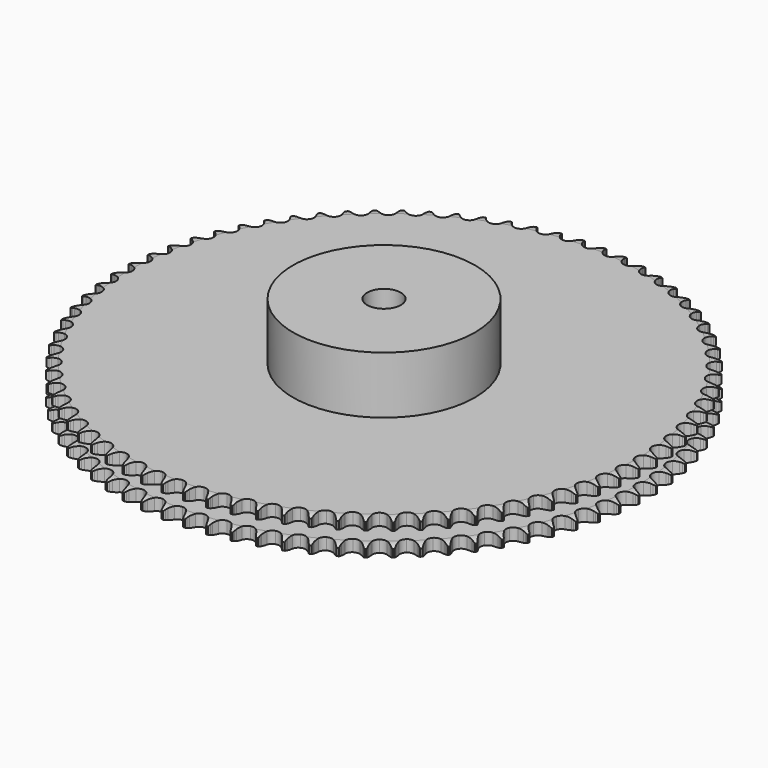
from build123d import *

# Parameters (mm, degrees)
PAD_DEPTH         = 21
SKETCH001_R       = 54
PAD001_DEPTH      = 55
SKETCH002_R       = 10
POCKET_DEPTH      = 0.001
POCKET_DEPTH_BACK = 55.001


with BuildPart() as part:
    # Sprocket → Pad (new body)
    with BuildSketch(Plane.XY):
        with BuildLine():
            ThreePointArc((-6.507722, 157.342219), (-5.887136, 156.383888), (-5.435054, 155.335486))
            Line((-5.435054, 155.335486), (-5.023535, 154.10746))
            ThreePointArc((-5.023535, 154.10746), (-4.373702, 152.564742), (-3.499697, 151.137024))
            ThreePointArc((-3.499697, 151.137024), (-1.965744, 149.819577), (0, 149.345733))
            ThreePointArc((0, 149.345733), (1.965744, 149.819577), (3.499697, 151.137024))
            ThreePointArc((3.499697, 151.137024), (4.373702, 152.564742), (5.023535, 154.10746))
            Line((5.023535, 154.10746), (5.435054, 155.335486))
            ThreePointArc((5.435054, 155.335486), (5.887136, 156.383888), (6.507722, 157.342219))
            ThreePointArc((6.507722, 157.342219), (7.047051, 156.335914), (7.411012, 155.25376))
            Line((7.411012, 155.25376), (7.719716, 153.995945))
            ThreePointArc((7.719716, 153.995945), (8.239933, 152.404833), (8.993053, 150.909817))
            ThreePointArc((8.993053, 150.909817), (10.412972, 149.470197), (12.332873, 148.835641))
            ThreePointArc((12.332873, 148.835641), (14.331033, 149.145537), (15.96854, 150.331812))
            Line((15.96854, 150.331812), (17.73247, 153.166264))
            ThreePointArc((17.73247, 153.166264), (17.970898, 153.768641), (18.243994, 154.356113))
            ThreePointArc((18.243994, 154.356113), (18.781107, 155.363602), (19.478713, 156.267412))
            ThreePointArc((19.478713, 156.267412), (19.933099, 155.220007), (20.206453, 154.111493))
            Line((20.206453, 154.111493), (20.410233, 152.832482))
            ThreePointArc((20.410233, 152.832482), (20.797281, 151.203845), (21.424371, 149.651743))
            ThreePointArc((21.424371, 149.651743), (22.720558, 148.099784), (24.5815, 147.308852))
            ThreePointArc((24.5815, 147.308852), (26.598426, 147.452682), (28.328302, 148.499681))
            Line((28.328302, 148.499681), (30.320275, 151.178788))
            ThreePointArc((30.320275, 151.178788), (30.607632, 151.759418), (30.928308, 152.322332))
            ThreePointArc((30.928308, 152.322332), (31.546785, 153.282025), (32.316644, 154.12514))
            ThreePointArc((32.316644, 154.12514), (32.682984, 153.043789), (32.863864, 151.916488))
            Line((32.863864, 151.916488), (32.961328, 150.625017))
            ThreePointArc((32.961328, 150.625017), (33.212562, 148.969982), (33.709339, 147.371396))
            ThreePointArc((33.709339, 147.371396), (34.872939, 145.717699), (36.66221, 144.775793))
            ThreePointArc((36.66221, 144.775793), (38.684125, 144.752576), (40.494553, 145.653146))
            Line((40.494553, 145.653146), (42.700961, 148.158607))
            ThreePointArc((42.700961, 148.158607), (43.035285, 148.713524), (43.401351, 149.248034))
            ThreePointArc((43.401351, 149.248034), (44.096966, 150.153377), (44.933819, 150.930038))
            ThreePointArc((44.933819, 150.930038), (45.209611, 149.822128), (45.296782, 148.68374))
            Line((45.296782, 148.68374), (45.287264, 147.388632))
            ThreePointArc((45.287264, 147.388632), (45.400968, 145.718502), (45.764038, 144.084353))
            ThreePointArc((45.764038, 144.084353), (46.787102, 142.340215), (48.49248, 141.253769))
            ThreePointArc((48.49248, 141.253769), (50.505572, 141.063662), (52.384185, 141.811653))
            Line((52.384185, 141.811653), (54.789957, 144.126353))
            ThreePointArc((54.789957, 144.126353), (55.168963, 144.651766), (55.577918, 145.154222))
            ThreePointArc((55.577918, 145.154222), (56.34592, 145.999028), (57.244051, 146.70393))
            ThreePointArc((57.244051, 146.70393), (57.427411, 145.577029), (57.420276, 144.435331))
            Line((57.420276, 144.435331), (57.303842, 143.145432))
            ThreePointArc((57.303842, 143.145432), (57.279239, 141.471617), (57.506122, 139.813068))
            ThreePointArc((57.506122, 139.813068), (58.381662, 137.990403), (59.991498, 136.766839))
            ThreePointArc((59.991498, 136.766839), (61.982015, 136.411141), (63.91598, 137.001443))
            Line((63.91598, 137.001443), (66.504681, 139.10957))
            ThreePointArc((66.504681, 139.10957), (66.925782, 139.60189), (67.374832, 140.068858))
            ThreePointArc((67.374832, 140.068858), (68.209974, 140.847358), (69.163248, 141.475685))
            ThreePointArc((69.163248, 141.475685), (69.252923, 140.337492), (69.151532, 139.200282))
            Line((69.151532, 139.200282), (68.928976, 137.924404))
            ThreePointArc((68.928976, 137.924404), (68.766235, 136.258338), (68.855381, 134.586717))
            ThreePointArc((68.855381, 134.586717), (69.577416, 132.697976), (71.080712, 131.345652))
            ThreePointArc((71.080712, 131.345652), (73.035057, 130.826794), (75.011164, 131.255374))
            Line((75.011164, 131.255374), (77.765111, 133.142527))
            ThreePointArc((77.765111, 133.142527), (78.225429, 133.598392), (78.711507, 134.026683))
            ThreePointArc((78.711507, 134.026683), (79.608085, 134.733558), (80.60999, 135.281018))
            ThreePointArc((80.60999, 135.281018), (80.605367, 134.139307), (80.410413, 133.014355))
            Line((80.410413, 133.014355), (80.083256, 131.761213))
            ThreePointArc((80.083256, 131.761213), (79.783488, 130.114276), (79.734288, 128.441003))
            ThreePointArc((79.734288, 128.441003), (80.297886, 126.499088), (81.684374, 125.027241))
            ThreePointArc((81.684374, 125.027241), (83.589197, 124.348767), (85.593946, 124.612697))
            Line((85.593946, 124.612697), (88.494327, 126.265986))
            ThreePointArc((88.494327, 126.265986), (88.990717, 126.682281), (89.510503, 127.068969))
            ThreePointArc((89.510503, 127.068969), (90.462392, 127.699391), (91.506084, 128.162245))
            ThreePointArc((91.506084, 128.162245), (91.407195, 127.024815), (91.120009, 125.919804))
            Line((91.120009, 125.919804), (90.690486, 124.697958))
            ThreePointArc((90.690486, 124.697958), (90.255739, 123.081401), (90.068529, 121.417907))
            ThreePointArc((90.068529, 121.417907), (90.46984, 119.436082), (91.730048, 117.854768))
            ThreePointArc((91.730048, 117.854768), (93.572337, 117.021312), (95.592034, 117.11879))
            Line((95.592034, 117.11879), (98.619036, 118.52692))
            ThreePointArc((98.619036, 118.52692), (99.148108, 118.900802), (99.698052, 119.243245))
            ThreePointArc((99.698052, 119.243245), (100.69875, 119.792908), (101.777099, 120.167993))
            ThreePointArc((101.777099, 120.167993), (101.584619, 119.042614), (101.207163, 117.965093))
            Line((101.207163, 117.965093), (100.678208, 116.782891))
            ThreePointArc((100.678208, 116.782891), (100.111451, 115.207756), (99.78751, 113.565403))
            ThreePointArc((99.78751, 113.565403), (100.023793, 111.557207), (101.149113, 109.877227))
            ThreePointArc((101.149113, 109.877227), (102.916283, 108.894482), (104.937132, 108.824842))
            Line((104.937132, 108.824842), (108.070077, 109.978195))
            ThreePointArc((108.070077, 109.978195), (108.628218, 110.307109), (109.204561, 110.602969))
            ThreePointArc((109.204561, 110.602969), (110.247232, 111.068117), (111.352872, 111.352872))
            ThreePointArc((111.352872, 111.352872), (111.068117, 110.247232), (110.602969, 109.204561))
            Line((110.602969, 109.204561), (109.978195, 108.070077))
            ThreePointArc((109.978195, 108.070077), (109.283301, 106.547125), (108.824842, 104.937132))
            ThreePointArc((108.824842, 104.937132), (108.894482, 102.916283), (109.877227, 101.149113))
            ThreePointArc((109.877227, 101.149113), (111.557207, 100.023793), (113.565403, 99.78751))
            Line((113.565403, 99.78751), (116.782891, 100.678208))
            ThreePointArc((116.782891, 100.678208), (117.366286, 100.959907), (117.965093, 101.207163))
            ThreePointArc((117.965093, 101.207163), (119.042614, 101.584619), (120.167993, 101.777099))
            ThreePointArc((120.167993, 101.777099), (119.792908, 100.69875), (119.243245, 99.698052))
            Line((119.243245, 99.698052), (118.52692, 98.619036))
            ThreePointArc((118.52692, 98.619036), (117.708635, 97.158669), (117.11879, 95.592034))
            ThreePointArc((117.11879, 95.592034), (117.021312, 93.572337), (117.854768, 91.730048))
            ThreePointArc((117.854768, 91.730048), (119.436082, 90.46984), (121.417907, 90.068529))
            Line((121.417907, 90.068529), (124.697958, 90.690486))
            ThreePointArc((124.697958, 90.690486), (125.302624, 90.923047), (125.919804, 91.120009))
            ThreePointArc((125.919804, 91.120009), (127.024815, 91.407195), (128.162245, 91.506084))
            ThreePointArc((128.162245, 91.506084), (127.699391, 90.462392), (127.068969, 89.510503))
            Line((127.068969, 89.510503), (126.265986, 88.494327))
            ThreePointArc((126.265986, 88.494327), (125.329899, 87.106521), (124.612697, 85.593946))
            ThreePointArc((124.612697, 85.593946), (124.348767, 83.589197), (125.027241, 81.684374))
            ThreePointArc((125.027241, 81.684374), (126.499088, 80.297886), (128.441003, 79.734288))
            Line((128.441003, 79.734288), (131.761213, 80.083256))
            ThreePointArc((131.761213, 80.083256), (132.383018, 80.26509), (133.014355, 80.410413))
            ThreePointArc((133.014355, 80.410413), (134.139307, 80.605367), (135.281018, 80.60999))
            ThreePointArc((135.281018, 80.60999), (134.733558, 79.608085), (134.026683, 78.711507))
            Line((134.026683, 78.711507), (133.142527, 77.765111))
            ThreePointArc((133.142527, 77.765111), (132.095034, 76.459347), (131.255374, 75.011164))
            ThreePointArc((131.255374, 75.011164), (130.826794, 73.035057), (131.345652, 71.080712))
            ThreePointArc((131.345652, 71.080712), (132.697976, 69.577416), (134.586717, 68.855381))
            Line((134.586717, 68.855381), (137.924404, 68.928976))
            ThreePointArc((137.924404, 68.928976), (138.559101, 69.058841), (139.200282, 69.151532))
            ThreePointArc((139.200282, 69.151532), (140.337492, 69.252923), (141.475685, 69.163248))
            ThreePointArc((141.475685, 69.163248), (140.847358, 68.209974), (140.068858, 67.374832))
            Line((140.068858, 67.374832), (139.10957, 66.504681))
            ThreePointArc((139.10957, 66.504681), (137.957825, 65.289878), (137.001443, 63.91598))
            ThreePointArc((137.001443, 63.91598), (136.411141, 61.982015), (136.766839, 59.991498))
            ThreePointArc((136.766839, 59.991498), (137.990403, 58.381662), (139.813068, 57.506122))
            Line((139.813068, 57.506122), (143.145432, 57.303842))
            ThreePointArc((143.145432, 57.303842), (143.788685, 57.38085), (144.435331, 57.420276))
            ThreePointArc((144.435331, 57.420276), (145.577029, 57.427411), (146.70393, 57.244051))
            ThreePointArc((146.70393, 57.244051), (145.999028, 56.34592), (145.154222, 55.577918))
            Line((145.154222, 55.577918), (144.126353, 54.789957))
            ThreePointArc((144.126353, 54.789957), (142.878225, 53.674413), (141.811653, 52.384185))
            ThreePointArc((141.811653, 52.384185), (141.063662, 50.505572), (141.253769, 48.49248))
            ThreePointArc((141.253769, 48.49248), (142.340215, 46.787102), (144.084353, 45.764038))
            Line((144.084353, 45.764038), (147.388632, 45.287264))
            ThreePointArc((147.388632, 45.287264), (148.036047, 45.31089), (148.68374, 45.296782))
            ThreePointArc((148.68374, 45.296782), (149.822128, 45.209611), (150.930038, 44.933819))
            ThreePointArc((150.930038, 44.933819), (150.153377, 44.096966), (149.248034, 43.401351))
            Line((149.248034, 43.401351), (148.158607, 42.700961))
            ThreePointArc((148.158607, 42.700961), (146.822621, 41.692298), (145.653146, 40.494553))
            ThreePointArc((145.653146, 40.494553), (144.752576, 38.684125), (144.775793, 36.66221))
            ThreePointArc((144.775793, 36.66221), (145.717699, 34.872939), (147.371396, 33.709339))
            Line((147.371396, 33.709339), (150.625017, 32.961328))
            ThreePointArc((150.625017, 32.961328), (151.272173, 32.93141), (151.916488, 32.863864))
            ThreePointArc((151.916488, 32.863864), (153.043789, 32.682984), (154.12514, 32.316644))
            ThreePointArc((154.12514, 32.316644), (153.282025, 31.546785), (152.322332, 30.928308))
            Line((152.322332, 30.928308), (151.178788, 30.320275))
            ThreePointArc((151.178788, 30.320275), (149.76407, 29.425381), (148.499681, 28.328302))
            ThreePointArc((148.499681, 28.328302), (147.452682, 26.598426), (147.308852, 24.5815))
            ThreePointArc((147.308852, 24.5815), (148.099784, 22.720558), (149.651743, 21.424371))
            Line((149.651743, 21.424371), (152.832482, 20.410233))
            ThreePointArc((152.832482, 20.410233), (153.474956, 20.326976), (154.111493, 20.206453))
            ThreePointArc((154.111493, 20.206453), (155.220007, 19.933099), (156.267412, 19.478713))
            ThreePointArc((156.267412, 19.478713), (155.363602, 18.781107), (154.356113, 18.243994))
            Line((154.356113, 18.243994), (153.166264, 17.73247))
            ThreePointArc((153.166264, 17.73247), (151.682478, 16.95746), (150.331812, 15.96854))
            ThreePointArc((150.331812, 15.96854), (149.145537, 14.331033), (148.835641, 12.332873))
            ThreePointArc((148.835641, 12.332873), (149.470197, 10.412972), (150.909817, 8.993053))
            Line((150.909817, 8.993053), (153.995945, 7.719716))
            ThreePointArc((153.995945, 7.719716), (154.629349, 7.583688), (155.25376, 7.411012))
            ThreePointArc((155.25376, 7.411012), (156.335914, 7.047051), (157.342219, 6.507722))
            ThreePointArc((157.342219, 6.507722), (156.383888, 5.887136), (155.335486, 5.435054))
            Line((155.335486, 5.435054), (154.10746, 5.023535))
            ThreePointArc((154.10746, 5.023535), (152.564742, 4.373702), (151.137024, 3.499697))
            ThreePointArc((151.137024, 3.499697), (149.819577, 1.965744), (149.345733, 0))
            ThreePointArc((149.345733, 0), (149.819577, -1.965744), (151.137024, -3.499697))
            Line((151.137024, -3.499697), (154.10746, -5.023535))
            ThreePointArc((154.10746, -5.023535), (154.727468, -5.211405), (155.335486, -5.435054))
            ThreePointArc((155.335486, -5.435054), (156.383888, -5.887136), (157.342219, -6.507722))
            ThreePointArc((157.342219, -6.507722), (156.335914, -7.047051), (155.25376, -7.411012))
            Line((155.25376, -7.411012), (153.995945, -7.719716))
            ThreePointArc((153.995945, -7.719716), (152.404833, -8.239933), (150.909817, -8.993053))
            ThreePointArc((150.909817, -8.993053), (149.470197, -10.412972), (148.835641, -12.332873))
            ThreePointArc((148.835641, -12.332873), (149.145537, -14.331033), (150.331812, -15.96854))
            Line((150.331812, -15.96854), (153.166264, -17.73247))
            ThreePointArc((153.166264, -17.73247), (153.768641, -17.970898), (154.356113, -18.243994))
            ThreePointArc((154.356113, -18.243994), (155.363602, -18.781107), (156.267412, -19.478713))
            ThreePointArc((156.267412, -19.478713), (155.220007, -19.933099), (154.111493, -20.206453))
            Line((154.111493, -20.206453), (152.832482, -20.410233))
            ThreePointArc((152.832482, -20.410233), (151.203845, -20.797281), (149.651743, -21.424371))
            ThreePointArc((149.651743, -21.424371), (148.099784, -22.720558), (147.308852, -24.5815))
            ThreePointArc((147.308852, -24.5815), (147.452682, -26.598426), (148.499681, -28.328302))
            Line((148.499681, -28.328302), (151.178788, -30.320275))
            ThreePointArc((151.178788, -30.320275), (151.759418, -30.607632), (152.322332, -30.928308))
            ThreePointArc((152.322332, -30.928308), (153.282025, -31.546785), (154.12514, -32.316644))
            ThreePointArc((154.12514, -32.316644), (153.043789, -32.682984), (151.916488, -32.863864))
            Line((151.916488, -32.863864), (150.625017, -32.961328))
            ThreePointArc((150.625017, -32.961328), (148.969982, -33.212562), (147.371396, -33.709339))
            ThreePointArc((147.371396, -33.709339), (145.717699, -34.872939), (144.775793, -36.66221))
            ThreePointArc((144.775793, -36.66221), (144.752576, -38.684125), (145.653146, -40.494553))
            Line((145.653146, -40.494553), (148.158607, -42.700961))
            ThreePointArc((148.158607, -42.700961), (148.713524, -43.035285), (149.248034, -43.401351))
            ThreePointArc((149.248034, -43.401351), (150.153377, -44.096966), (150.930038, -44.933819))
            ThreePointArc((150.930038, -44.933819), (149.822128, -45.209611), (148.68374, -45.296782))
            Line((148.68374, -45.296782), (147.388632, -45.287264))
            ThreePointArc((147.388632, -45.287264), (145.718502, -45.400968), (144.084353, -45.764038))
            ThreePointArc((144.084353, -45.764038), (142.340215, -46.787102), (141.253769, -48.49248))
            ThreePointArc((141.253769, -48.49248), (141.063662, -50.505572), (141.811653, -52.384185))
            Line((141.811653, -52.384185), (144.126353, -54.789957))
            ThreePointArc((144.126353, -54.789957), (144.651766, -55.168963), (145.154222, -55.577918))
            ThreePointArc((145.154222, -55.577918), (145.999028, -56.34592), (146.70393, -57.244051))
            ThreePointArc((146.70393, -57.244051), (145.577029, -57.427411), (144.435331, -57.420276))
            Line((144.435331, -57.420276), (143.145432, -57.303842))
            ThreePointArc((143.145432, -57.303842), (141.471617, -57.279239), (139.813068, -57.506122))
            ThreePointArc((139.813068, -57.506122), (137.990403, -58.381662), (136.766839, -59.991498))
            ThreePointArc((136.766839, -59.991498), (136.411141, -61.982015), (137.001443, -63.91598))
            Line((137.001443, -63.91598), (139.10957, -66.504681))
            ThreePointArc((139.10957, -66.504681), (139.60189, -66.925782), (140.068858, -67.374832))
            ThreePointArc((140.068858, -67.374832), (140.847358, -68.209974), (141.475685, -69.163248))
            ThreePointArc((141.475685, -69.163248), (140.337492, -69.252923), (139.200282, -69.151532))
            Line((139.200282, -69.151532), (137.924404, -68.928976))
            ThreePointArc((137.924404, -68.928976), (136.258338, -68.766235), (134.586717, -68.855381))
            ThreePointArc((134.586717, -68.855381), (132.697976, -69.577416), (131.345652, -71.080712))
            ThreePointArc((131.345652, -71.080712), (130.826794, -73.035057), (131.255374, -75.011164))
            Line((131.255374, -75.011164), (133.142527, -77.765111))
            ThreePointArc((133.142527, -77.765111), (133.598392, -78.225429), (134.026683, -78.711507))
            ThreePointArc((134.026683, -78.711507), (134.733558, -79.608085), (135.281018, -80.60999))
            ThreePointArc((135.281018, -80.60999), (134.139307, -80.605367), (133.014355, -80.410413))
            Line((133.014355, -80.410413), (131.761213, -80.083256))
            ThreePointArc((131.761213, -80.083256), (130.114276, -79.783488), (128.441003, -79.734288))
            ThreePointArc((128.441003, -79.734288), (126.499088, -80.297886), (125.027241, -81.684374))
            ThreePointArc((125.027241, -81.684374), (124.348767, -83.589197), (124.612697, -85.593946))
            Line((124.612697, -85.593946), (126.265986, -88.494327))
            ThreePointArc((126.265986, -88.494327), (126.682281, -88.990717), (127.068969, -89.510503))
            ThreePointArc((127.068969, -89.510503), (127.699391, -90.462392), (128.162245, -91.506084))
            ThreePointArc((128.162245, -91.506084), (127.024815, -91.407195), (125.919804, -91.120009))
            Line((125.919804, -91.120009), (124.697958, -90.690486))
            ThreePointArc((124.697958, -90.690486), (123.081401, -90.255739), (121.417907, -90.068529))
            ThreePointArc((121.417907, -90.068529), (119.436082, -90.46984), (117.854768, -91.730048))
            ThreePointArc((117.854768, -91.730048), (117.021312, -93.572337), (117.11879, -95.592034))
            Line((117.11879, -95.592034), (118.52692, -98.619036))
            ThreePointArc((118.52692, -98.619036), (118.900802, -99.148108), (119.243245, -99.698052))
            ThreePointArc((119.243245, -99.698052), (119.792908, -100.69875), (120.167993, -101.777099))
            ThreePointArc((120.167993, -101.777099), (119.042614, -101.584619), (117.965093, -101.207163))
            Line((117.965093, -101.207163), (116.782891, -100.678208))
            ThreePointArc((116.782891, -100.678208), (115.207756, -100.111451), (113.565403, -99.78751))
            ThreePointArc((113.565403, -99.78751), (111.557207, -100.023793), (109.877227, -101.149113))
            ThreePointArc((109.877227, -101.149113), (108.894482, -102.916283), (108.824842, -104.937132))
            Line((108.824842, -104.937132), (109.978195, -108.070077))
            ThreePointArc((109.978195, -108.070077), (110.307109, -108.628218), (110.602969, -109.204561))
            ThreePointArc((110.602969, -109.204561), (111.068117, -110.247232), (111.352872, -111.352872))
            ThreePointArc((111.352872, -111.352872), (110.247232, -111.068117), (109.204561, -110.602969))
            Line((109.204561, -110.602969), (108.070077, -109.978195))
            ThreePointArc((108.070077, -109.978195), (106.547125, -109.283301), (104.937132, -108.824842))
            ThreePointArc((104.937132, -108.824842), (102.916283, -108.894482), (101.149113, -109.877227))
            ThreePointArc((101.149113, -109.877227), (100.023793, -111.557207), (99.78751, -113.565403))
            Line((99.78751, -113.565403), (100.678208, -116.782891))
            ThreePointArc((100.678208, -116.782891), (100.959907, -117.366286), (101.207163, -117.965093))
            ThreePointArc((101.207163, -117.965093), (101.584619, -119.042614), (101.777099, -120.167993))
            ThreePointArc((101.777099, -120.167993), (100.69875, -119.792908), (99.698052, -119.243245))
            Line((99.698052, -119.243245), (98.619036, -118.52692))
            ThreePointArc((98.619036, -118.52692), (97.158669, -117.708635), (95.592034, -117.11879))
            ThreePointArc((95.592034, -117.11879), (93.572337, -117.021312), (91.730048, -117.854768))
            ThreePointArc((91.730048, -117.854768), (90.46984, -119.436082), (90.068529, -121.417907))
            Line((90.068529, -121.417907), (90.690486, -124.697958))
            ThreePointArc((90.690486, -124.697958), (90.923047, -125.302624), (91.120009, -125.919804))
            ThreePointArc((91.120009, -125.919804), (91.407195, -127.024815), (91.506084, -128.162245))
            ThreePointArc((91.506084, -128.162245), (90.462392, -127.699391), (89.510503, -127.068969))
            Line((89.510503, -127.068969), (88.494327, -126.265986))
            ThreePointArc((88.494327, -126.265986), (87.106521, -125.329899), (85.593946, -124.612697))
            ThreePointArc((85.593946, -124.612697), (83.589197, -124.348767), (81.684374, -125.027241))
            ThreePointArc((81.684374, -125.027241), (80.297886, -126.499088), (79.734288, -128.441003))
            Line((79.734288, -128.441003), (80.083256, -131.761213))
            ThreePointArc((80.083256, -131.761213), (80.26509, -132.383018), (80.410413, -133.014355))
            ThreePointArc((80.410413, -133.014355), (80.605367, -134.139307), (80.60999, -135.281018))
            ThreePointArc((80.60999, -135.281018), (79.608085, -134.733558), (78.711507, -134.026683))
            Line((78.711507, -134.026683), (77.765111, -133.142527))
            ThreePointArc((77.765111, -133.142527), (76.459347, -132.095034), (75.011164, -131.255374))
            ThreePointArc((75.011164, -131.255374), (73.035057, -130.826794), (71.080712, -131.345652))
            ThreePointArc((71.080712, -131.345652), (69.577416, -132.697976), (68.855381, -134.586717))
            Line((68.855381, -134.586717), (68.928976, -137.924404))
            ThreePointArc((68.928976, -137.924404), (69.058841, -138.559101), (69.151532, -139.200282))
            ThreePointArc((69.151532, -139.200282), (69.252923, -140.337492), (69.163248, -141.475685))
            ThreePointArc((69.163248, -141.475685), (68.209974, -140.847358), (67.374832, -140.068858))
            Line((67.374832, -140.068858), (66.504681, -139.10957))
            ThreePointArc((66.504681, -139.10957), (65.289878, -137.957825), (63.91598, -137.001443))
            ThreePointArc((63.91598, -137.001443), (61.982015, -136.411141), (59.991498, -136.766839))
            ThreePointArc((59.991498, -136.766839), (58.381662, -137.990403), (57.506122, -139.813068))
            Line((57.506122, -139.813068), (57.303842, -143.145432))
            ThreePointArc((57.303842, -143.145432), (57.38085, -143.788685), (57.420276, -144.435331))
            ThreePointArc((57.420276, -144.435331), (57.427411, -145.577029), (57.244051, -146.70393))
            ThreePointArc((57.244051, -146.70393), (56.34592, -145.999028), (55.577918, -145.154222))
            Line((55.577918, -145.154222), (54.789957, -144.126353))
            ThreePointArc((54.789957, -144.126353), (53.674413, -142.878225), (52.384185, -141.811653))
            ThreePointArc((52.384185, -141.811653), (50.505572, -141.063662), (48.49248, -141.253769))
            ThreePointArc((48.49248, -141.253769), (46.787102, -142.340215), (45.764038, -144.084353))
            Line((45.764038, -144.084353), (45.287264, -147.388632))
            ThreePointArc((45.287264, -147.388632), (45.31089, -148.036047), (45.296782, -148.68374))
            ThreePointArc((45.296782, -148.68374), (45.209611, -149.822128), (44.933819, -150.930038))
            ThreePointArc((44.933819, -150.930038), (44.096966, -150.153377), (43.401351, -149.248034))
            Line((43.401351, -149.248034), (42.700961, -148.158607))
            ThreePointArc((42.700961, -148.158607), (41.692298, -146.822621), (40.494553, -145.653146))
            ThreePointArc((40.494553, -145.653146), (38.684125, -144.752576), (36.66221, -144.775793))
            ThreePointArc((36.66221, -144.775793), (34.872939, -145.717699), (33.709339, -147.371396))
            Line((33.709339, -147.371396), (32.961328, -150.625017))
            ThreePointArc((32.961328, -150.625017), (32.93141, -151.272173), (32.863864, -151.916488))
            ThreePointArc((32.863864, -151.916488), (32.682984, -153.043789), (32.316644, -154.12514))
            ThreePointArc((32.316644, -154.12514), (31.546785, -153.282025), (30.928308, -152.322332))
            Line((30.928308, -152.322332), (30.320275, -151.178788))
            ThreePointArc((30.320275, -151.178788), (29.425381, -149.76407), (28.328302, -148.499681))
            ThreePointArc((28.328302, -148.499681), (26.598426, -147.452682), (24.5815, -147.308852))
            ThreePointArc((24.5815, -147.308852), (22.720558, -148.099784), (21.424371, -149.651743))
            Line((21.424371, -149.651743), (20.410233, -152.832482))
            ThreePointArc((20.410233, -152.832482), (20.326976, -153.474956), (20.206453, -154.111493))
            ThreePointArc((20.206453, -154.111493), (19.933099, -155.220007), (19.478713, -156.267412))
            ThreePointArc((19.478713, -156.267412), (18.781107, -155.363602), (18.243994, -154.356113))
            Line((18.243994, -154.356113), (17.73247, -153.166264))
            ThreePointArc((17.73247, -153.166264), (16.95746, -151.682478), (15.96854, -150.331812))
            ThreePointArc((15.96854, -150.331812), (14.331033, -149.145537), (12.332873, -148.835641))
            ThreePointArc((12.332873, -148.835641), (10.412972, -149.470197), (8.993053, -150.909817))
            Line((8.993053, -150.909817), (7.719716, -153.995945))
            ThreePointArc((7.719716, -153.995945), (7.583688, -154.629349), (7.411012, -155.25376))
            ThreePointArc((7.411012, -155.25376), (7.047051, -156.335914), (6.507722, -157.342219))
            ThreePointArc((6.507722, -157.342219), (5.887136, -156.383888), (5.435054, -155.335486))
            Line((5.435054, -155.335486), (5.023535, -154.10746))
            ThreePointArc((5.023535, -154.10746), (4.373702, -152.564742), (3.499697, -151.137024))
            ThreePointArc((3.499697, -151.137024), (1.965744, -149.819577), (0, -149.345733))
            ThreePointArc((0, -149.345733), (-1.965744, -149.819577), (-3.499697, -151.137024))
            Line((-3.499697, -151.137024), (-5.023535, -154.10746))
            ThreePointArc((-5.023535, -154.10746), (-5.211405, -154.727468), (-5.435054, -155.335486))
            ThreePointArc((-5.435054, -155.335486), (-5.887136, -156.383888), (-6.507722, -157.342219))
            ThreePointArc((-6.507722, -157.342219), (-7.047051, -156.335914), (-7.411012, -155.25376))
            Line((-7.411012, -155.25376), (-7.719716, -153.995945))
            ThreePointArc((-7.719716, -153.995945), (-8.239933, -152.404833), (-8.993053, -150.909817))
            ThreePointArc((-8.993053, -150.909817), (-10.412972, -149.470197), (-12.332873, -148.835641))
            ThreePointArc((-12.332873, -148.835641), (-14.331033, -149.145537), (-15.96854, -150.331812))
            Line((-15.96854, -150.331812), (-17.73247, -153.166264))
            ThreePointArc((-17.73247, -153.166264), (-17.970898, -153.768641), (-18.243994, -154.356113))
            ThreePointArc((-18.243994, -154.356113), (-18.781107, -155.363602), (-19.478713, -156.267412))
            ThreePointArc((-19.478713, -156.267412), (-19.933099, -155.220007), (-20.206453, -154.111493))
            Line((-20.206453, -154.111493), (-20.410233, -152.832482))
            ThreePointArc((-20.410233, -152.832482), (-20.797281, -151.203845), (-21.424371, -149.651743))
            ThreePointArc((-21.424371, -149.651743), (-22.720558, -148.099784), (-24.5815, -147.308852))
            ThreePointArc((-24.5815, -147.308852), (-26.598426, -147.452682), (-28.328302, -148.499681))
            Line((-28.328302, -148.499681), (-30.320275, -151.178788))
            ThreePointArc((-30.320275, -151.178788), (-30.607632, -151.759418), (-30.928308, -152.322332))
            ThreePointArc((-30.928308, -152.322332), (-31.546785, -153.282025), (-32.316644, -154.12514))
            ThreePointArc((-32.316644, -154.12514), (-32.682984, -153.043789), (-32.863864, -151.916488))
            Line((-32.863864, -151.916488), (-32.961328, -150.625017))
            ThreePointArc((-32.961328, -150.625017), (-33.212562, -148.969982), (-33.709339, -147.371396))
            ThreePointArc((-33.709339, -147.371396), (-34.872939, -145.717699), (-36.66221, -144.775793))
            ThreePointArc((-36.66221, -144.775793), (-38.684125, -144.752576), (-40.494553, -145.653146))
            Line((-40.494553, -145.653146), (-42.700961, -148.158607))
            ThreePointArc((-42.700961, -148.158607), (-43.035285, -148.713524), (-43.401351, -149.248034))
            ThreePointArc((-43.401351, -149.248034), (-44.096966, -150.153377), (-44.933819, -150.930038))
            ThreePointArc((-44.933819, -150.930038), (-45.209611, -149.822128), (-45.296782, -148.68374))
            Line((-45.296782, -148.68374), (-45.287264, -147.388632))
            ThreePointArc((-45.287264, -147.388632), (-45.400968, -145.718502), (-45.764038, -144.084353))
            ThreePointArc((-45.764038, -144.084353), (-46.787102, -142.340215), (-48.49248, -141.253769))
            ThreePointArc((-48.49248, -141.253769), (-50.505572, -141.063662), (-52.384185, -141.811653))
            Line((-52.384185, -141.811653), (-54.789957, -144.126353))
            ThreePointArc((-54.789957, -144.126353), (-55.168963, -144.651766), (-55.577918, -145.154222))
            ThreePointArc((-55.577918, -145.154222), (-56.34592, -145.999028), (-57.244051, -146.70393))
            ThreePointArc((-57.244051, -146.70393), (-57.427411, -145.577029), (-57.420276, -144.435331))
            Line((-57.420276, -144.435331), (-57.303842, -143.145432))
            ThreePointArc((-57.303842, -143.145432), (-57.279239, -141.471617), (-57.506122, -139.813068))
            ThreePointArc((-57.506122, -139.813068), (-58.381662, -137.990403), (-59.991498, -136.766839))
            ThreePointArc((-59.991498, -136.766839), (-61.982015, -136.411141), (-63.91598, -137.001443))
            Line((-63.91598, -137.001443), (-66.504681, -139.10957))
            ThreePointArc((-66.504681, -139.10957), (-66.925782, -139.60189), (-67.374832, -140.068858))
            ThreePointArc((-67.374832, -140.068858), (-68.209974, -140.847358), (-69.163248, -141.475685))
            ThreePointArc((-69.163248, -141.475685), (-69.252923, -140.337492), (-69.151532, -139.200282))
            Line((-69.151532, -139.200282), (-68.928976, -137.924404))
            ThreePointArc((-68.928976, -137.924404), (-68.766235, -136.258338), (-68.855381, -134.586717))
            ThreePointArc((-68.855381, -134.586717), (-69.577416, -132.697976), (-71.080712, -131.345652))
            ThreePointArc((-71.080712, -131.345652), (-73.035057, -130.826794), (-75.011164, -131.255374))
            Line((-75.011164, -131.255374), (-77.765111, -133.142527))
            ThreePointArc((-77.765111, -133.142527), (-78.225429, -133.598392), (-78.711507, -134.026683))
            ThreePointArc((-78.711507, -134.026683), (-79.608085, -134.733558), (-80.60999, -135.281018))
            ThreePointArc((-80.60999, -135.281018), (-80.605367, -134.139307), (-80.410413, -133.014355))
            Line((-80.410413, -133.014355), (-80.083256, -131.761213))
            ThreePointArc((-80.083256, -131.761213), (-79.783488, -130.114276), (-79.734288, -128.441003))
            ThreePointArc((-79.734288, -128.441003), (-80.297886, -126.499088), (-81.684374, -125.027241))
            ThreePointArc((-81.684374, -125.027241), (-83.589197, -124.348767), (-85.593946, -124.612697))
            Line((-85.593946, -124.612697), (-88.494327, -126.265986))
            ThreePointArc((-88.494327, -126.265986), (-88.990717, -126.682281), (-89.510503, -127.068969))
            ThreePointArc((-89.510503, -127.068969), (-90.462392, -127.699391), (-91.506084, -128.162245))
            ThreePointArc((-91.506084, -128.162245), (-91.407195, -127.024815), (-91.120009, -125.919804))
            Line((-91.120009, -125.919804), (-90.690486, -124.697958))
            ThreePointArc((-90.690486, -124.697958), (-90.255739, -123.081401), (-90.068529, -121.417907))
            ThreePointArc((-90.068529, -121.417907), (-90.46984, -119.436082), (-91.730048, -117.854768))
            ThreePointArc((-91.730048, -117.854768), (-93.572337, -117.021312), (-95.592034, -117.11879))
            Line((-95.592034, -117.11879), (-98.619036, -118.52692))
            ThreePointArc((-98.619036, -118.52692), (-99.148108, -118.900802), (-99.698052, -119.243245))
            ThreePointArc((-99.698052, -119.243245), (-100.69875, -119.792908), (-101.777099, -120.167993))
            ThreePointArc((-101.777099, -120.167993), (-101.584619, -119.042614), (-101.207163, -117.965093))
            Line((-101.207163, -117.965093), (-100.678208, -116.782891))
            ThreePointArc((-100.678208, -116.782891), (-100.111451, -115.207756), (-99.78751, -113.565403))
            ThreePointArc((-99.78751, -113.565403), (-100.023793, -111.557207), (-101.149113, -109.877227))
            ThreePointArc((-101.149113, -109.877227), (-102.916283, -108.894482), (-104.937132, -108.824842))
            Line((-104.937132, -108.824842), (-108.070077, -109.978195))
            ThreePointArc((-108.070077, -109.978195), (-108.628218, -110.307109), (-109.204561, -110.602969))
            ThreePointArc((-109.204561, -110.602969), (-110.247232, -111.068117), (-111.352872, -111.352872))
            ThreePointArc((-111.352872, -111.352872), (-111.068117, -110.247232), (-110.602969, -109.204561))
            Line((-110.602969, -109.204561), (-109.978195, -108.070077))
            ThreePointArc((-109.978195, -108.070077), (-109.283301, -106.547125), (-108.824842, -104.937132))
            ThreePointArc((-108.824842, -104.937132), (-108.894482, -102.916283), (-109.877227, -101.149113))
            ThreePointArc((-109.877227, -101.149113), (-111.557207, -100.023793), (-113.565403, -99.78751))
            Line((-113.565403, -99.78751), (-116.782891, -100.678208))
            ThreePointArc((-116.782891, -100.678208), (-117.366286, -100.959907), (-117.965093, -101.207163))
            ThreePointArc((-117.965093, -101.207163), (-119.042614, -101.584619), (-120.167993, -101.777099))
            ThreePointArc((-120.167993, -101.777099), (-119.792908, -100.69875), (-119.243245, -99.698052))
            Line((-119.243245, -99.698052), (-118.52692, -98.619036))
            ThreePointArc((-118.52692, -98.619036), (-117.708635, -97.158669), (-117.11879, -95.592034))
            ThreePointArc((-117.11879, -95.592034), (-117.021312, -93.572337), (-117.854768, -91.730048))
            ThreePointArc((-117.854768, -91.730048), (-119.436082, -90.46984), (-121.417907, -90.068529))
            Line((-121.417907, -90.068529), (-124.697958, -90.690486))
            ThreePointArc((-124.697958, -90.690486), (-125.302624, -90.923047), (-125.919804, -91.120009))
            ThreePointArc((-125.919804, -91.120009), (-127.024815, -91.407195), (-128.162245, -91.506084))
            ThreePointArc((-128.162245, -91.506084), (-127.699391, -90.462392), (-127.068969, -89.510503))
            Line((-127.068969, -89.510503), (-126.265986, -88.494327))
            ThreePointArc((-126.265986, -88.494327), (-125.329899, -87.106521), (-124.612697, -85.593946))
            ThreePointArc((-124.612697, -85.593946), (-124.348767, -83.589197), (-125.027241, -81.684374))
            ThreePointArc((-125.027241, -81.684374), (-126.499088, -80.297886), (-128.441003, -79.734288))
            Line((-128.441003, -79.734288), (-131.761213, -80.083256))
            ThreePointArc((-131.761213, -80.083256), (-132.383018, -80.26509), (-133.014355, -80.410413))
            ThreePointArc((-133.014355, -80.410413), (-134.139307, -80.605367), (-135.281018, -80.60999))
            ThreePointArc((-135.281018, -80.60999), (-134.733558, -79.608085), (-134.026683, -78.711507))
            Line((-134.026683, -78.711507), (-133.142527, -77.765111))
            ThreePointArc((-133.142527, -77.765111), (-132.095034, -76.459347), (-131.255374, -75.011164))
            ThreePointArc((-131.255374, -75.011164), (-130.826794, -73.035057), (-131.345652, -71.080712))
            ThreePointArc((-131.345652, -71.080712), (-132.697976, -69.577416), (-134.586717, -68.855381))
            Line((-134.586717, -68.855381), (-137.924404, -68.928976))
            ThreePointArc((-137.924404, -68.928976), (-138.559101, -69.058841), (-139.200282, -69.151532))
            ThreePointArc((-139.200282, -69.151532), (-140.337492, -69.252923), (-141.475685, -69.163248))
            ThreePointArc((-141.475685, -69.163248), (-140.847358, -68.209974), (-140.068858, -67.374832))
            Line((-140.068858, -67.374832), (-139.10957, -66.504681))
            ThreePointArc((-139.10957, -66.504681), (-137.957825, -65.289878), (-137.001443, -63.91598))
            ThreePointArc((-137.001443, -63.91598), (-136.411141, -61.982015), (-136.766839, -59.991498))
            ThreePointArc((-136.766839, -59.991498), (-137.990403, -58.381662), (-139.813068, -57.506122))
            Line((-139.813068, -57.506122), (-143.145432, -57.303842))
            ThreePointArc((-143.145432, -57.303842), (-143.788685, -57.38085), (-144.435331, -57.420276))
            ThreePointArc((-144.435331, -57.420276), (-145.577029, -57.427411), (-146.70393, -57.244051))
            ThreePointArc((-146.70393, -57.244051), (-145.999028, -56.34592), (-145.154222, -55.577918))
            Line((-145.154222, -55.577918), (-144.126353, -54.789957))
            ThreePointArc((-144.126353, -54.789957), (-142.878225, -53.674413), (-141.811653, -52.384185))
            ThreePointArc((-141.811653, -52.384185), (-141.063662, -50.505572), (-141.253769, -48.49248))
            ThreePointArc((-141.253769, -48.49248), (-142.340215, -46.787102), (-144.084353, -45.764038))
            Line((-144.084353, -45.764038), (-147.388632, -45.287264))
            ThreePointArc((-147.388632, -45.287264), (-148.036047, -45.31089), (-148.68374, -45.296782))
            ThreePointArc((-148.68374, -45.296782), (-149.822128, -45.209611), (-150.930038, -44.933819))
            ThreePointArc((-150.930038, -44.933819), (-150.153377, -44.096966), (-149.248034, -43.401351))
            Line((-149.248034, -43.401351), (-148.158607, -42.700961))
            ThreePointArc((-148.158607, -42.700961), (-146.822621, -41.692298), (-145.653146, -40.494553))
            ThreePointArc((-145.653146, -40.494553), (-144.752576, -38.684125), (-144.775793, -36.66221))
            ThreePointArc((-144.775793, -36.66221), (-145.717699, -34.872939), (-147.371396, -33.709339))
            Line((-147.371396, -33.709339), (-150.625017, -32.961328))
            ThreePointArc((-150.625017, -32.961328), (-151.272173, -32.93141), (-151.916488, -32.863864))
            ThreePointArc((-151.916488, -32.863864), (-153.043789, -32.682984), (-154.12514, -32.316644))
            ThreePointArc((-154.12514, -32.316644), (-153.282025, -31.546785), (-152.322332, -30.928308))
            Line((-152.322332, -30.928308), (-151.178788, -30.320275))
            ThreePointArc((-151.178788, -30.320275), (-149.76407, -29.425381), (-148.499681, -28.328302))
            ThreePointArc((-148.499681, -28.328302), (-147.452682, -26.598426), (-147.308852, -24.5815))
            ThreePointArc((-147.308852, -24.5815), (-148.099784, -22.720558), (-149.651743, -21.424371))
            Line((-149.651743, -21.424371), (-152.832482, -20.410233))
            ThreePointArc((-152.832482, -20.410233), (-153.474956, -20.326976), (-154.111493, -20.206453))
            ThreePointArc((-154.111493, -20.206453), (-155.220007, -19.933099), (-156.267412, -19.478713))
            ThreePointArc((-156.267412, -19.478713), (-155.363602, -18.781107), (-154.356113, -18.243994))
            Line((-154.356113, -18.243994), (-153.166264, -17.73247))
            ThreePointArc((-153.166264, -17.73247), (-151.682478, -16.95746), (-150.331812, -15.96854))
            ThreePointArc((-150.331812, -15.96854), (-149.145537, -14.331033), (-148.835641, -12.332873))
            ThreePointArc((-148.835641, -12.332873), (-149.470197, -10.412972), (-150.909817, -8.993053))
            Line((-150.909817, -8.993053), (-153.995945, -7.719716))
            ThreePointArc((-153.995945, -7.719716), (-154.629349, -7.583688), (-155.25376, -7.411012))
            ThreePointArc((-155.25376, -7.411012), (-156.335914, -7.047051), (-157.342219, -6.507722))
            ThreePointArc((-157.342219, -6.507722), (-156.383888, -5.887136), (-155.335486, -5.435054))
            Line((-155.335486, -5.435054), (-154.10746, -5.023535))
            ThreePointArc((-154.10746, -5.023535), (-152.564742, -4.373702), (-151.137024, -3.499697))
            ThreePointArc((-151.137024, -3.499697), (-149.819577, -1.965744), (-149.345733, 0))
            ThreePointArc((-149.345733, 0), (-149.819577, 1.965744), (-151.137024, 3.499697))
            Line((-151.137024, 3.499697), (-154.10746, 5.023535))
            ThreePointArc((-154.10746, 5.023535), (-154.727468, 5.211405), (-155.335486, 5.435054))
            ThreePointArc((-155.335486, 5.435054), (-156.383888, 5.887136), (-157.342219, 6.507722))
            ThreePointArc((-157.342219, 6.507722), (-156.335914, 7.047051), (-155.25376, 7.411012))
            Line((-155.25376, 7.411012), (-153.995945, 7.719716))
            ThreePointArc((-153.995945, 7.719716), (-152.404833, 8.239933), (-150.909817, 8.993053))
            ThreePointArc((-150.909817, 8.993053), (-149.470197, 10.412972), (-148.835641, 12.332873))
            ThreePointArc((-148.835641, 12.332873), (-149.145537, 14.331033), (-150.331812, 15.96854))
            Line((-150.331812, 15.96854), (-153.166264, 17.73247))
            ThreePointArc((-153.166264, 17.73247), (-153.768641, 17.970898), (-154.356113, 18.243994))
            ThreePointArc((-154.356113, 18.243994), (-155.363602, 18.781107), (-156.267412, 19.478713))
            ThreePointArc((-156.267412, 19.478713), (-155.220007, 19.933099), (-154.111493, 20.206453))
            Line((-154.111493, 20.206453), (-152.832482, 20.410233))
            ThreePointArc((-152.832482, 20.410233), (-151.203845, 20.797281), (-149.651743, 21.424371))
            ThreePointArc((-149.651743, 21.424371), (-148.099784, 22.720558), (-147.308852, 24.5815))
            ThreePointArc((-147.308852, 24.5815), (-147.452682, 26.598426), (-148.499681, 28.328302))
            Line((-148.499681, 28.328302), (-151.178788, 30.320275))
            ThreePointArc((-151.178788, 30.320275), (-151.759418, 30.607632), (-152.322332, 30.928308))
            ThreePointArc((-152.322332, 30.928308), (-153.282025, 31.546785), (-154.12514, 32.316644))
            ThreePointArc((-154.12514, 32.316644), (-153.043789, 32.682984), (-151.916488, 32.863864))
            Line((-151.916488, 32.863864), (-150.625017, 32.961328))
            ThreePointArc((-150.625017, 32.961328), (-148.969982, 33.212562), (-147.371396, 33.709339))
            ThreePointArc((-147.371396, 33.709339), (-145.717699, 34.872939), (-144.775793, 36.66221))
            ThreePointArc((-144.775793, 36.66221), (-144.752576, 38.684125), (-145.653146, 40.494553))
            Line((-145.653146, 40.494553), (-148.158607, 42.700961))
            ThreePointArc((-148.158607, 42.700961), (-148.713524, 43.035285), (-149.248034, 43.401351))
            ThreePointArc((-149.248034, 43.401351), (-150.153377, 44.096966), (-150.930038, 44.933819))
            ThreePointArc((-150.930038, 44.933819), (-149.822128, 45.209611), (-148.68374, 45.296782))
            Line((-148.68374, 45.296782), (-147.388632, 45.287264))
            ThreePointArc((-147.388632, 45.287264), (-145.718502, 45.400968), (-144.084353, 45.764038))
            ThreePointArc((-144.084353, 45.764038), (-142.340215, 46.787102), (-141.253769, 48.49248))
            ThreePointArc((-141.253769, 48.49248), (-141.063662, 50.505572), (-141.811653, 52.384185))
            Line((-141.811653, 52.384185), (-144.126353, 54.789957))
            ThreePointArc((-144.126353, 54.789957), (-144.651766, 55.168963), (-145.154222, 55.577918))
            ThreePointArc((-145.154222, 55.577918), (-145.999028, 56.34592), (-146.70393, 57.244051))
            ThreePointArc((-146.70393, 57.244051), (-145.577029, 57.427411), (-144.435331, 57.420276))
            Line((-144.435331, 57.420276), (-143.145432, 57.303842))
            ThreePointArc((-143.145432, 57.303842), (-141.471617, 57.279239), (-139.813068, 57.506122))
            ThreePointArc((-139.813068, 57.506122), (-137.990403, 58.381662), (-136.766839, 59.991498))
            ThreePointArc((-136.766839, 59.991498), (-136.411141, 61.982015), (-137.001443, 63.91598))
            Line((-137.001443, 63.91598), (-139.10957, 66.504681))
            ThreePointArc((-139.10957, 66.504681), (-139.60189, 66.925782), (-140.068858, 67.374832))
            ThreePointArc((-140.068858, 67.374832), (-140.847358, 68.209974), (-141.475685, 69.163248))
            ThreePointArc((-141.475685, 69.163248), (-140.337492, 69.252923), (-139.200282, 69.151532))
            Line((-139.200282, 69.151532), (-137.924404, 68.928976))
            ThreePointArc((-137.924404, 68.928976), (-136.258338, 68.766235), (-134.586717, 68.855381))
            ThreePointArc((-134.586717, 68.855381), (-132.697976, 69.577416), (-131.345652, 71.080712))
            ThreePointArc((-131.345652, 71.080712), (-130.826794, 73.035057), (-131.255374, 75.011164))
            Line((-131.255374, 75.011164), (-133.142527, 77.765111))
            ThreePointArc((-133.142527, 77.765111), (-133.598392, 78.225429), (-134.026683, 78.711507))
            ThreePointArc((-134.026683, 78.711507), (-134.733558, 79.608085), (-135.281018, 80.60999))
            ThreePointArc((-135.281018, 80.60999), (-134.139307, 80.605367), (-133.014355, 80.410413))
            Line((-133.014355, 80.410413), (-131.761213, 80.083256))
            ThreePointArc((-131.761213, 80.083256), (-130.114276, 79.783488), (-128.441003, 79.734288))
            ThreePointArc((-128.441003, 79.734288), (-126.499088, 80.297886), (-125.027241, 81.684374))
            ThreePointArc((-125.027241, 81.684374), (-124.348767, 83.589197), (-124.612697, 85.593946))
            Line((-124.612697, 85.593946), (-126.265986, 88.494327))
            ThreePointArc((-126.265986, 88.494327), (-126.682281, 88.990717), (-127.068969, 89.510503))
            ThreePointArc((-127.068969, 89.510503), (-127.699391, 90.462392), (-128.162245, 91.506084))
            ThreePointArc((-128.162245, 91.506084), (-127.024815, 91.407195), (-125.919804, 91.120009))
            Line((-125.919804, 91.120009), (-124.697958, 90.690486))
            ThreePointArc((-124.697958, 90.690486), (-123.081401, 90.255739), (-121.417907, 90.068529))
            ThreePointArc((-121.417907, 90.068529), (-119.436082, 90.46984), (-117.854768, 91.730048))
            ThreePointArc((-117.854768, 91.730048), (-117.021312, 93.572337), (-117.11879, 95.592034))
            Line((-117.11879, 95.592034), (-118.52692, 98.619036))
            ThreePointArc((-118.52692, 98.619036), (-118.900802, 99.148108), (-119.243245, 99.698052))
            ThreePointArc((-119.243245, 99.698052), (-119.792908, 100.69875), (-120.167993, 101.777099))
            ThreePointArc((-120.167993, 101.777099), (-119.042614, 101.584619), (-117.965093, 101.207163))
            Line((-117.965093, 101.207163), (-116.782891, 100.678208))
            ThreePointArc((-116.782891, 100.678208), (-115.207756, 100.111451), (-113.565403, 99.78751))
            ThreePointArc((-113.565403, 99.78751), (-111.557207, 100.023793), (-109.877227, 101.149113))
            ThreePointArc((-109.877227, 101.149113), (-108.894482, 102.916283), (-108.824842, 104.937132))
            Line((-108.824842, 104.937132), (-109.978195, 108.070077))
            ThreePointArc((-109.978195, 108.070077), (-110.307109, 108.628218), (-110.602969, 109.204561))
            ThreePointArc((-110.602969, 109.204561), (-111.068117, 110.247232), (-111.352872, 111.352872))
            ThreePointArc((-111.352872, 111.352872), (-110.247232, 111.068117), (-109.204561, 110.602969))
            Line((-109.204561, 110.602969), (-108.070077, 109.978195))
            ThreePointArc((-108.070077, 109.978195), (-106.547125, 109.283301), (-104.937132, 108.824842))
            ThreePointArc((-104.937132, 108.824842), (-102.916283, 108.894482), (-101.149113, 109.877227))
            ThreePointArc((-101.149113, 109.877227), (-100.023793, 111.557207), (-99.78751, 113.565403))
            Line((-99.78751, 113.565403), (-100.678208, 116.782891))
            ThreePointArc((-100.678208, 116.782891), (-100.959907, 117.366286), (-101.207163, 117.965093))
            ThreePointArc((-101.207163, 117.965093), (-101.584619, 119.042614), (-101.777099, 120.167993))
            ThreePointArc((-101.777099, 120.167993), (-100.69875, 119.792908), (-99.698052, 119.243245))
            Line((-99.698052, 119.243245), (-98.619036, 118.52692))
            ThreePointArc((-98.619036, 118.52692), (-97.158669, 117.708635), (-95.592034, 117.11879))
            ThreePointArc((-95.592034, 117.11879), (-93.572337, 117.021312), (-91.730048, 117.854768))
            ThreePointArc((-91.730048, 117.854768), (-90.46984, 119.436082), (-90.068529, 121.417907))
            Line((-90.068529, 121.417907), (-90.690486, 124.697958))
            ThreePointArc((-90.690486, 124.697958), (-90.923047, 125.302624), (-91.120009, 125.919804))
            ThreePointArc((-91.120009, 125.919804), (-91.407195, 127.024815), (-91.506084, 128.162245))
            ThreePointArc((-91.506084, 128.162245), (-90.462392, 127.699391), (-89.510503, 127.068969))
            Line((-89.510503, 127.068969), (-88.494327, 126.265986))
            ThreePointArc((-88.494327, 126.265986), (-87.106521, 125.329899), (-85.593946, 124.612697))
            ThreePointArc((-85.593946, 124.612697), (-83.589197, 124.348767), (-81.684374, 125.027241))
            ThreePointArc((-81.684374, 125.027241), (-80.297886, 126.499088), (-79.734288, 128.441003))
            Line((-79.734288, 128.441003), (-80.083256, 131.761213))
            ThreePointArc((-80.083256, 131.761213), (-80.26509, 132.383018), (-80.410413, 133.014355))
            ThreePointArc((-80.410413, 133.014355), (-80.605367, 134.139307), (-80.60999, 135.281018))
            ThreePointArc((-80.60999, 135.281018), (-79.608085, 134.733558), (-78.711507, 134.026683))
            Line((-78.711507, 134.026683), (-77.765111, 133.142527))
            ThreePointArc((-77.765111, 133.142527), (-76.459347, 132.095034), (-75.011164, 131.255374))
            ThreePointArc((-75.011164, 131.255374), (-73.035057, 130.826794), (-71.080712, 131.345652))
            ThreePointArc((-71.080712, 131.345652), (-69.577416, 132.697976), (-68.855381, 134.586717))
            Line((-68.855381, 134.586717), (-68.928976, 137.924404))
            ThreePointArc((-68.928976, 137.924404), (-69.058841, 138.559101), (-69.151532, 139.200282))
            ThreePointArc((-69.151532, 139.200282), (-69.252923, 140.337492), (-69.163248, 141.475685))
            ThreePointArc((-69.163248, 141.475685), (-68.209974, 140.847358), (-67.374832, 140.068858))
            Line((-67.374832, 140.068858), (-66.504681, 139.10957))
            ThreePointArc((-66.504681, 139.10957), (-65.289878, 137.957825), (-63.91598, 137.001443))
            ThreePointArc((-63.91598, 137.001443), (-61.982015, 136.411141), (-59.991498, 136.766839))
            ThreePointArc((-59.991498, 136.766839), (-58.381662, 137.990403), (-57.506122, 139.813068))
            Line((-57.506122, 139.813068), (-57.303842, 143.145432))
            ThreePointArc((-57.303842, 143.145432), (-57.38085, 143.788685), (-57.420276, 144.435331))
            ThreePointArc((-57.420276, 144.435331), (-57.427411, 145.577029), (-57.244051, 146.70393))
            ThreePointArc((-57.244051, 146.70393), (-56.34592, 145.999028), (-55.577918, 145.154222))
            Line((-55.577918, 145.154222), (-54.789957, 144.126353))
            ThreePointArc((-54.789957, 144.126353), (-53.674413, 142.878225), (-52.384185, 141.811653))
            ThreePointArc((-52.384185, 141.811653), (-50.505572, 141.063662), (-48.49248, 141.253769))
            ThreePointArc((-48.49248, 141.253769), (-46.787102, 142.340215), (-45.764038, 144.084353))
            Line((-45.764038, 144.084353), (-45.287264, 147.388632))
            ThreePointArc((-45.287264, 147.388632), (-45.31089, 148.036047), (-45.296782, 148.68374))
            ThreePointArc((-45.296782, 148.68374), (-45.209611, 149.822128), (-44.933819, 150.930038))
            ThreePointArc((-44.933819, 150.930038), (-44.096966, 150.153377), (-43.401351, 149.248034))
            Line((-43.401351, 149.248034), (-42.700961, 148.158607))
            ThreePointArc((-42.700961, 148.158607), (-41.692298, 146.822621), (-40.494553, 145.653146))
            ThreePointArc((-40.494553, 145.653146), (-38.684125, 144.752576), (-36.66221, 144.775793))
            ThreePointArc((-36.66221, 144.775793), (-34.872939, 145.717699), (-33.709339, 147.371396))
            Line((-33.709339, 147.371396), (-32.961328, 150.625017))
            ThreePointArc((-32.961328, 150.625017), (-32.93141, 151.272173), (-32.863864, 151.916488))
            ThreePointArc((-32.863864, 151.916488), (-32.682984, 153.043789), (-32.316644, 154.12514))
            ThreePointArc((-32.316644, 154.12514), (-31.546785, 153.282025), (-30.928308, 152.322332))
            Line((-30.928308, 152.322332), (-30.320275, 151.178788))
            ThreePointArc((-30.320275, 151.178788), (-29.425381, 149.76407), (-28.328302, 148.499681))
            ThreePointArc((-28.328302, 148.499681), (-26.598426, 147.452682), (-24.5815, 147.308852))
            ThreePointArc((-24.5815, 147.308852), (-22.720558, 148.099784), (-21.424371, 149.651743))
            Line((-21.424371, 149.651743), (-20.410233, 152.832482))
            ThreePointArc((-20.410233, 152.832482), (-20.326976, 153.474956), (-20.206453, 154.111493))
            ThreePointArc((-20.206453, 154.111493), (-19.933099, 155.220007), (-19.478713, 156.267412))
            ThreePointArc((-19.478713, 156.267412), (-18.781107, 155.363602), (-18.243994, 154.356113))
            Line((-18.243994, 154.356113), (-17.73247, 153.166264))
            ThreePointArc((-17.73247, 153.166264), (-16.95746, 151.682478), (-15.96854, 150.331812))
            ThreePointArc((-15.96854, 150.331812), (-14.331033, 149.145537), (-12.332873, 148.835641))
            ThreePointArc((-12.332873, 148.835641), (-10.412972, 149.470197), (-8.993053, 150.909817))
            Line((-8.993053, 150.909817), (-7.719716, 153.995945))
            ThreePointArc((-7.719716, 153.995945), (-7.583688, 154.629349), (-7.411012, 155.25376))
            ThreePointArc((-7.411012, 155.25376), (-7.047051, 156.335914), (-6.507722, 157.342219))
        make_face()
    extrude(amount=PAD_DEPTH)

    # Sketch → Groove (revolve, cut)
    with BuildSketch(Plane.XZ):
        with BuildLine():
            ThreePointArc((150.983431, 0), (153.89032, 0.329167), (156.65, 1.3))
            Line((156.65, 1.3), (156.65, 5.7))
            ThreePointArc((156.65, 5.7), (153.89032, 6.670833), (150.983431, 7))
            Line((54, 7), (150.983431, 7))
            Line((54, 14), (54, 7))
            Line((150.983431, 14), (54, 14))
            ThreePointArc((150.983431, 14), (153.89032, 14.329167), (156.65, 15.3))
            Line((156.65, 15.3), (156.65, 19.7))
            ThreePointArc((156.65, 19.7), (153.89032, 20.670833), (150.983431, 21))
            Line((150.983431, 21), (160.983431, 21))
            Line((160.983431, 21), (160.983431, 0))
            Line((150.983431, 0), (160.983431, 0))
        make_face()
    revolve(axis=Axis((0, 0, 0), (0, 0, 1)), mode=Mode.SUBTRACT)

    # Sketch001 → Pad001 (join)
    with BuildSketch(Plane.XY):
        Circle(SKETCH001_R)
    extrude(amount=PAD001_DEPTH)

    # Sketch002 → Pocket (cut, two sides)
    with BuildSketch(Plane.XY) as pocket_sk:
        Circle(SKETCH002_R)
    extrude(amount=-POCKET_DEPTH, mode=Mode.SUBTRACT)
    extrude(pocket_sk.sketch, amount=POCKET_DEPTH_BACK, mode=Mode.SUBTRACT)


solid = part.part
